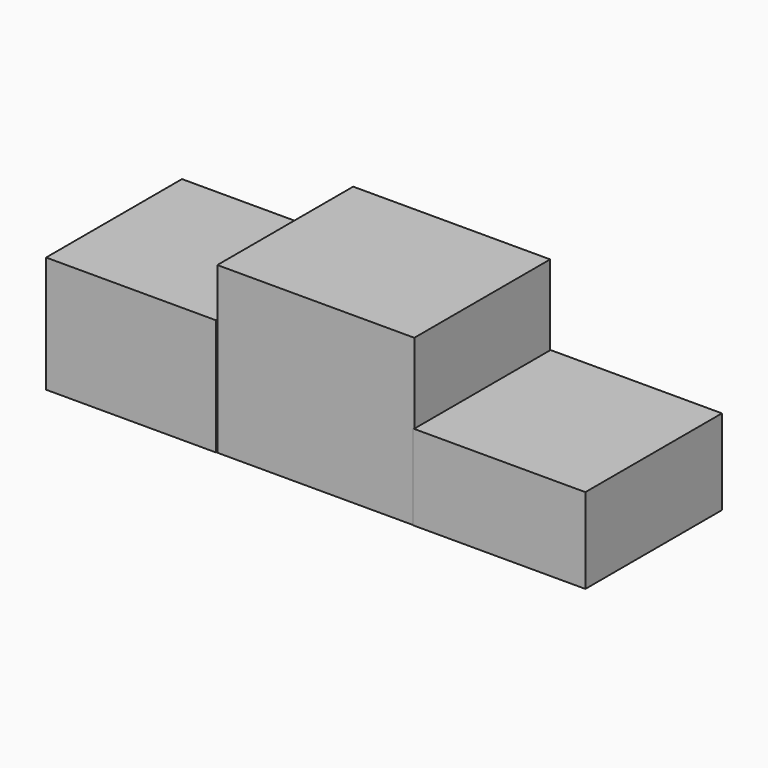
from build123d import *

# Parameters (mm, degrees)
F0_W     = 48.142213
F0_H     = 41.501908
F1_DEPTH = 40.386
F2_W     = 41.522941
F2_H     = 41.522937
F3_DEPTH = 28.448
F4_W     = 42.110531
F4_H     = 41.7188
F5_DEPTH = 20.828


with BuildPart() as f1:
    # F0 (on Top) → F1 (new body)
    with BuildSketch(Plane.XY):
        with Locations((-0.731738, -0.021794)):
            Rectangle(F0_W, F0_H)
    extrude(amount=F1_DEPTH)

    # F4 (on Top) → F5 (join)
    with BuildSketch(Plane.XY):
        with Locations((44.167088, 0)):
            Rectangle(F4_W, F4_H)
    extrude(amount=F5_DEPTH)


with BuildPart() as f3:
    # F2 (on Top) → F3 (new body)
    with BuildSketch(Plane.XY):
        with Locations((-45.831924, -0.097932)):
            Rectangle(F2_W, F2_H)
    extrude(amount=F3_DEPTH)


solid = Compound([f1.part, f3.part])
